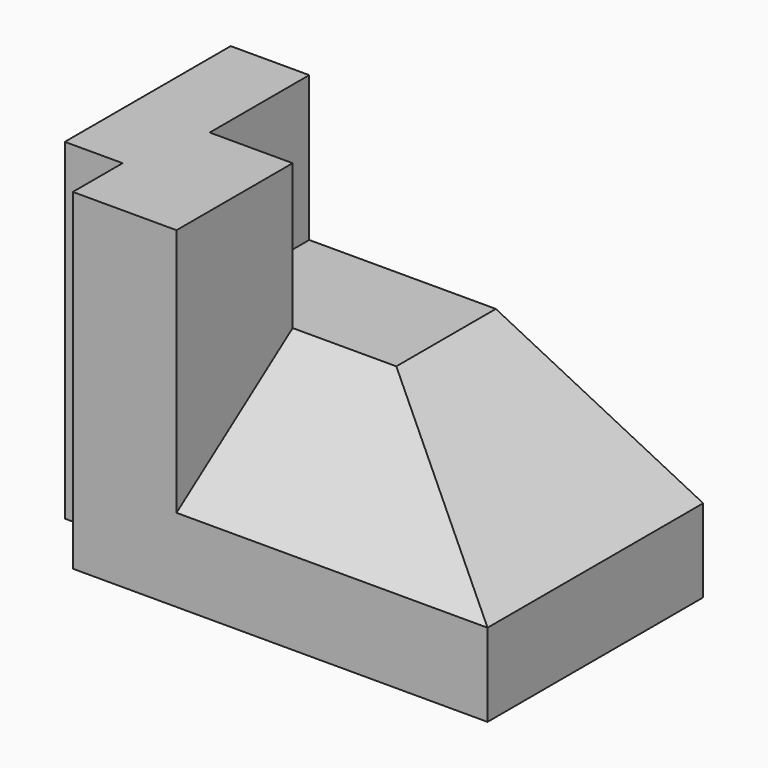
from build123d import *

# Parameters (mm, degrees)
SKETCH_W        = 100
SKETCH_H        = 65
PAD_DEPTH       = 20
SKETCH001_W     = 25
SKETCH001_H     = 35
PAD001_DEPTH    = 60
SKETCH002_W     = 18.940022
SKETCH002_H     = 50
PAD002_DEPTH    = 80
PAD003_DEPTH    = 25
POCKET_DEPTH    = 75
POCKET001_DEPTH = 65.001


with BuildPart() as part:
    # Sketch → Pad (new body)
    with BuildSketch(Plane.XY):
        Rectangle(SKETCH_W, SKETCH_H)
    extrude(amount=PAD_DEPTH)

    # Sketch001 → Pad001 (new body)
    with BuildSketch(Plane.XY.offset(20)):
        with Locations((-37.5, -15)):
            Rectangle(SKETCH001_W, SKETCH001_H)
    extrude(amount=PAD001_DEPTH)

    # Sketch002 → Pad002 (new body)
    with BuildSketch(Plane.XY.offset(80)):
        with Locations((-54.470011, 7.5)):
            Rectangle(SKETCH002_W, SKETCH002_H)
    extrude(amount=-PAD002_DEPTH)

    # Sketch003 → Pad003 (new body)
    with BuildSketch(Plane.XY.offset(20)):
        Polygon((-45, 32.5), (50, 32.5), (50, -32.5), (-25, -32.5), (-25, 2.5), (-45, 2.5), align=None)
    extrude(amount=PAD003_DEPTH)

    # Sketch004 → Pocket (cut)
    with BuildSketch(Plane.YZ.offset(50)):
        Polygon((-32.5, 45), (2.5, 45), (-32.5, 20), align=None)
    extrude(amount=-POCKET_DEPTH, mode=Mode.SUBTRACT)

    # Sketch005 → Pocket001 (cut, through all)
    with BuildSketch(Plane(origin=(0, 32.5, 0), x_dir=(-1, 0, 0), z_dir=(0, 1, 0))):
        Polygon((-50, 20), (0, 45), (-50, 45), align=None)
    extrude(amount=-POCKET001_DEPTH, mode=Mode.SUBTRACT)


solid = part.part
